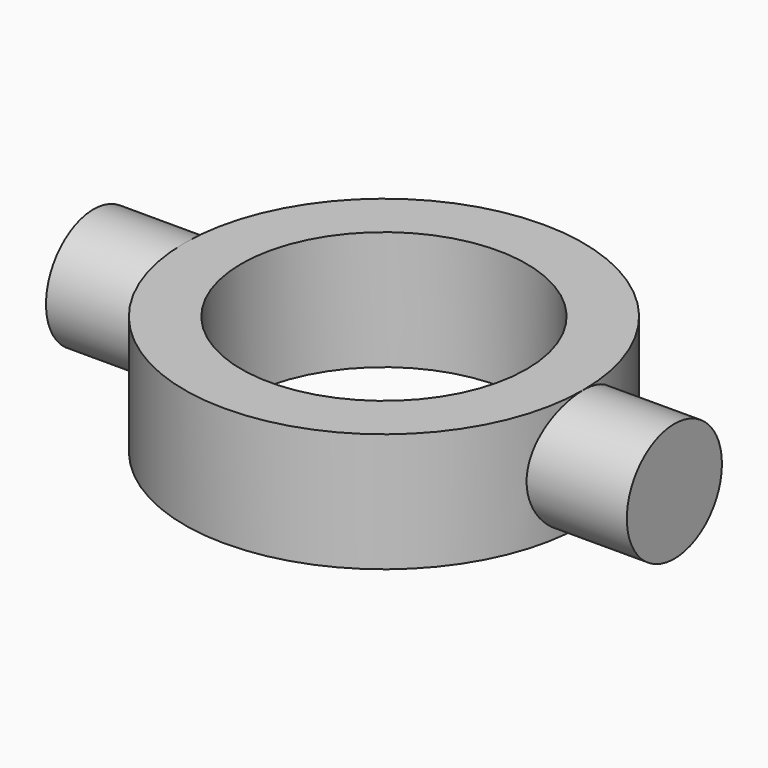
from build123d import *

# Parameters (mm, degrees)
F0_R          = 1.76
F1_DEPTH      = 8.6
F1_DEPTH_BACK = 8.6
F2_R          = 5.9
F3_DEPTH      = 3.52
F4_R          = 4.225
F5_DEPTH      = 5


with BuildPart() as f1:
    # F0 (on Right) → F1 (new body, two sides)
    with BuildSketch(Plane.YZ) as f1_sk:
        with Locations((0, 1.76)):
            Circle(F0_R)
    extrude(amount=F1_DEPTH)
    extrude(f1_sk.sketch, amount=-F1_DEPTH_BACK)

    # F2 (on Top) → F3 (join)
    with BuildSketch(Plane.XY):
        Circle(F2_R)
    extrude(amount=F3_DEPTH)

    # F4 (on face) → F5 (cut)
    with BuildSketch(Plane.XY.offset(3.52)):
        Circle(F4_R)
    extrude(amount=-F5_DEPTH, mode=Mode.SUBTRACT)


solid = f1.part
